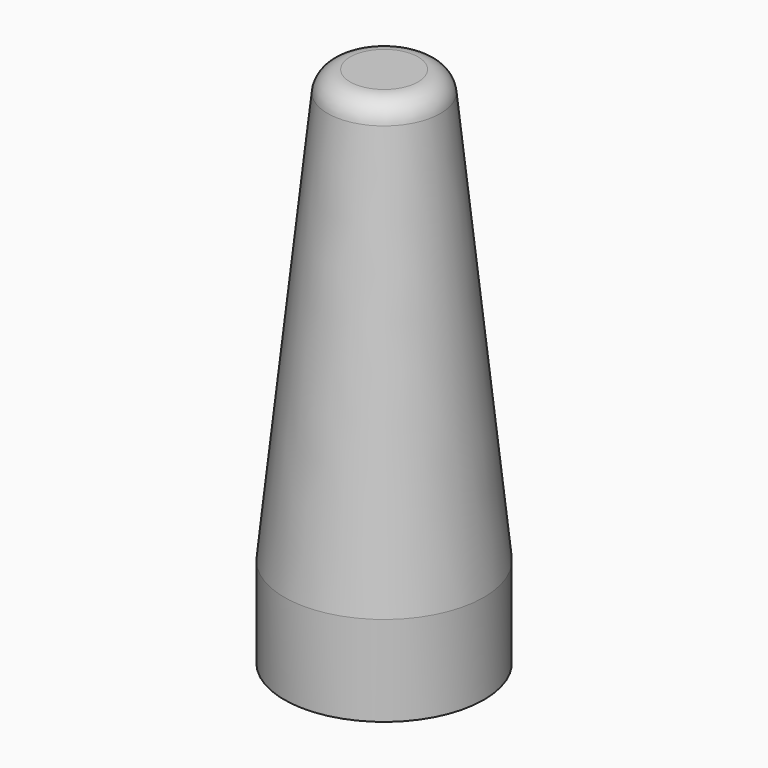
from build123d import *

# Parameters (mm, degrees)
F0_R     = 11.1633
F1_DEPTH = 58.42
F2_SIZE2 = 48.3329714275
F2_SIZE  = 5.08
F3_R     = 2.54


with BuildPart() as f1:
    # F0 (on Top) → F1 (new body)
    with BuildSketch(Plane.XY):
        Circle(F0_R)
    extrude(amount=F1_DEPTH)

    # F2
    f2_edges = [f1.edges().sort_by_distance(p)[0] for p in [
        (-11.1633, 0, 58.42),
    ]]
    f2_side = f1.faces().sort_by_distance((0, 0, 58.42))[0]
    chamfer(f2_edges, length=F2_SIZE, length2=F2_SIZE2, reference=f2_side)

    # F3
    f3_edges = [f1.edges().sort_by_distance(p)[0] for p in [
        (-6.0833, 0, 58.42),
    ]]
    fillet(f3_edges, radius=F3_R)


solid = f1.part
